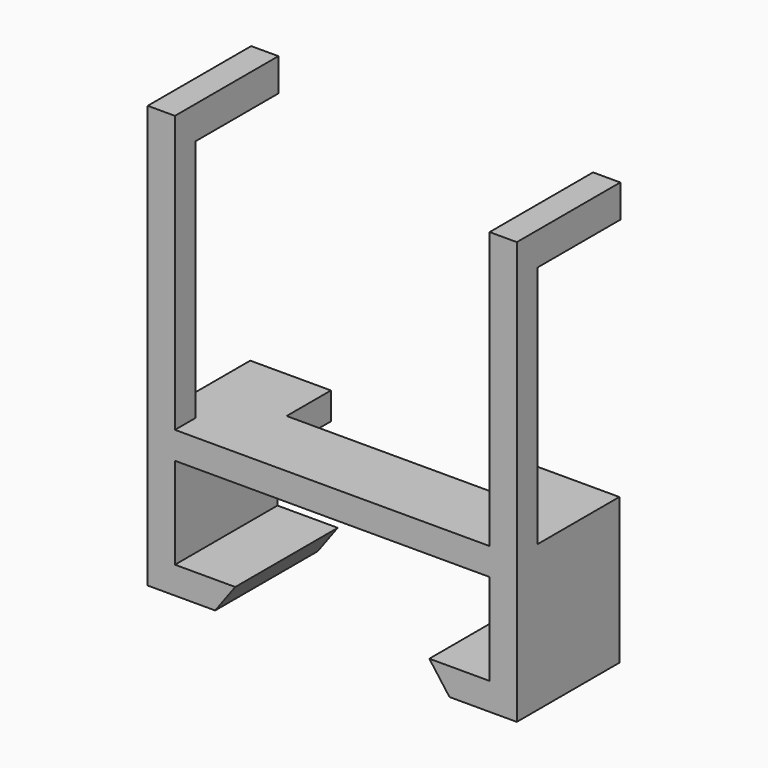
from build123d import *

# Parameters (mm, degrees)
F0_W     = 2.9464
F0_H     = 3.556
F1_DEPTH = 13.9954
F0_H_2   = 26.3652
F2_DEPTH = 2.794
F3_DEPTH = 13.8684
F0_W_2   = 22.479
F0_H_3   = 2.9464
F4_DEPTH = 7.874


with BuildPart() as f1:
    # F0 (on Front) → F1 (new body)
    with BuildSketch(Plane.XZ):
        with Locations((-5.823712, 28.1432)):
            Rectangle(F0_W, F0_H)
        with Locations((31.184088, 28.1432)):
            Rectangle(F0_W, F0_H)
    extrude(amount=-F1_DEPTH)

    # F0 (on Front) → F2 (join)
    with BuildSketch(Plane.XZ):
        with Locations((-5.823712, 13.1826)):
            Rectangle(F0_W, F0_H_2)
        with Locations((31.184088, 13.1826)):
            Rectangle(F0_W, F0_H_2)
    extrude(amount=-F2_DEPTH)

    # F0 (on Front) → F3 (join)
    with BuildSketch(Plane.XZ):
        Polygon((32.657288, -15.7988), (32.657288, 0), (29.710888, 0), (23.919688, 0), (23.919688, -2.9464), (29.710888, -2.9464), (29.710888, -12.8524), (23.183088, -12.8524), (25.367488, -15.7988), (29.710888, -15.7988), align=None)
        Polygon((1.440688, -2.9464), (1.440688, 0), (-4.350512, 0), (-7.296912, 0), (-7.296912, -15.7988), (-4.350512, -15.7988), (0, -15.7988), (2.177288, -12.8524), (-4.350512, -12.8524), (-4.350512, -2.9464), align=None)
    extrude(amount=-F3_DEPTH)

    # F0 (on Front) → F4 (join)
    with BuildSketch(Plane.XZ):
        with Locations((12.680188, -1.4732)):
            Rectangle(F0_W_2, F0_H_3)
    extrude(amount=-F4_DEPTH)


solid = f1.part
